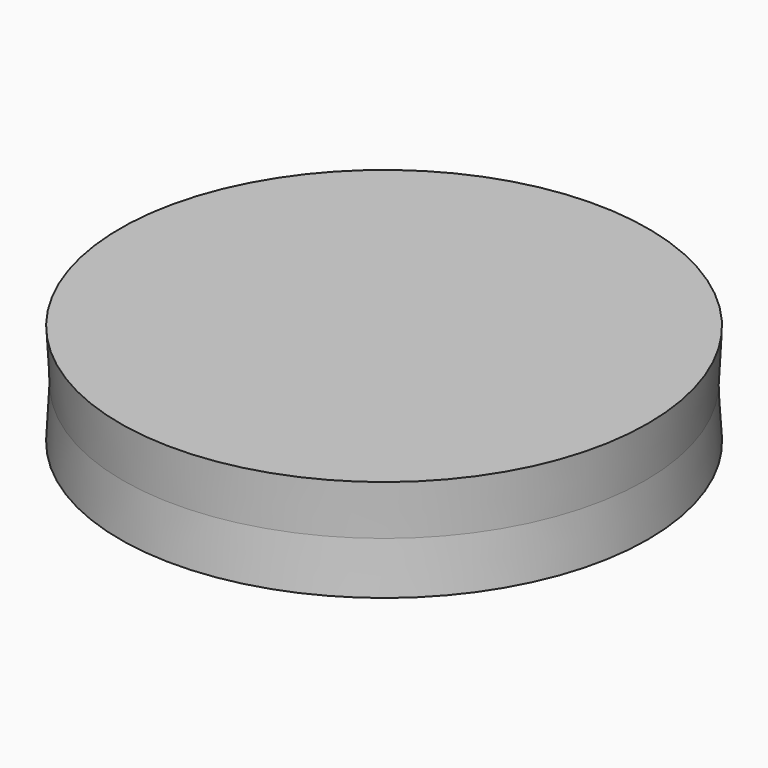
from build123d import *

# Parameters (mm, degrees)
F0_R     = 65.0098154859
F1_DEPTH = 12.7
F1_TAPER = -3


with BuildPart() as f1:
    # F0 (on Top) → F1 (new body, symmetric)
    with BuildSketch(Plane.XY):
        Circle(F0_R)
    extrude(amount=F1_DEPTH, both=True, taper=F1_TAPER)


solid = f1.part
